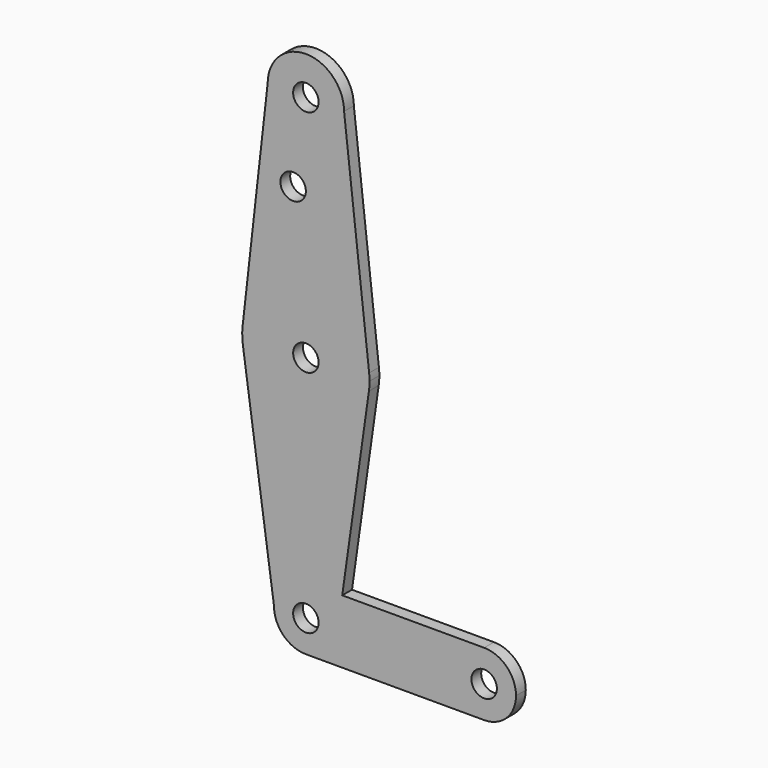
from build123d import *

# Parameters (mm, degrees)
F0_R     = 3.175
F1_DEPTH = 3.048


with BuildPart() as f1:
    # F0 (on Front) → F1 (new body)
    with BuildSketch(Plane.XZ):
        with BuildLine():
            ThreePointArc((-9.525, 114.3), (0, 104.775), (9.525, 114.3))
            ThreePointArc((9.525, 114.3), (0, 123.825), (-9.525, 114.3))
        make_face()
        with Locations((0, 114.3)):
            Circle(F0_R, mode=Mode.SUBTRACT)
        with BuildLine():
            Line((15.7748262685, 58.9305845108), (9.525, 114.3))
            ThreePointArc((9.525, 114.3), (0, 104.775), (-9.525, 114.3))
            Line((-9.525, 114.3), (-15.7748262685, 58.9305845108))
            ThreePointArc((-15.7748262685, 58.9305845108), (0, 73.025), (15.7748262685, 58.9305845108))
        make_face()
        with Locations((-3.175, 93.6752)):
            Circle(F0_R, mode=Mode.SUBTRACT)
        with BuildLine():
            ThreePointArc((15.875, 57.15), (15.8499367824, 58.0417000584), (15.7748262685, 58.9305845108))
            ThreePointArc((15.7748262685, 58.9305845108), (0, 73.025), (-15.7748262685, 58.9305845108))
            ThreePointArc((-15.7748262685, 58.9305845108), (-15.8734077732, 56.9251652464), (-15.7180667333, 54.9233426018))
            ThreePointArc((-15.7180667333, 54.9233426018), (0, 41.275), (15.7180667333, 54.9233426018))
            ThreePointArc((15.7180667333, 54.9233426018), (15.8357180827, 56.0339095893), (15.875, 57.15))
        make_face()
        with Locations((0, 57.15)):
            Circle(F0_R, mode=Mode.SUBTRACT)
        with BuildLine():
            ThreePointArc((15.7180667333, 54.9233426018), (0, 41.275), (-15.7180667333, 54.9233426018))
            Line((-15.7180667333, 54.9233426018), (-7.9375, 0))
            ThreePointArc((-7.9375, 0), (-5.6126600757, 5.6126600757), (0, 7.9375))
            Line((0, 7.9375), (9.0619444624, 7.9375))
            Line((9.0619444624, 7.9375), (15.7180667333, 54.9233426018))
        make_face()
        with BuildLine():
            ThreePointArc((0, 7.9375), (-5.6126600757, 5.6126600757), (-7.9375, 0))
            ThreePointArc((-7.9375, 0), (-5.6126600757, -5.6126600757), (0, -7.9375))
            ThreePointArc((0, -7.9375), (5.6126600757, -5.6126600757), (7.9375, 0))
            ThreePointArc((7.9375, 0), (5.6126600757, 5.6126600757), (0, 7.9375))
        make_face()
        Circle(F0_R, mode=Mode.SUBTRACT)
        with BuildLine():
            Line((44.45, 7.9375), (9.0619444624, 7.9375))
            Line((9.0619444624, 7.9375), (7.9375, 0))
            ThreePointArc((7.9375, 0), (5.6126600757, -5.6126600757), (0, -7.9375))
            Line((0, -7.9375), (44.45, -7.9375))
            ThreePointArc((44.45, -7.9375), (36.5125, 0), (44.45, 7.9375))
        make_face()
        with BuildLine():
            Line((7.9375, 0), (9.0619444624, 7.9375))
            Line((9.0619444624, 7.9375), (0, 7.9375))
            ThreePointArc((0, 7.9375), (5.6126600757, 5.6126600757), (7.9375, 0))
        make_face()
        with BuildLine():
            ThreePointArc((52.3875, 0), (50.0626600757, 5.6126600757), (44.45, 7.9375))
            ThreePointArc((44.45, 7.9375), (36.5125, 0), (44.45, -7.9375))
            ThreePointArc((44.45, -7.9375), (50.0626600757, -5.6126600757), (52.3875, 0))
        make_face()
        with Locations((44.45, 0)):
            Circle(F0_R, mode=Mode.SUBTRACT)
    extrude(amount=F1_DEPTH)


solid = f1.part
